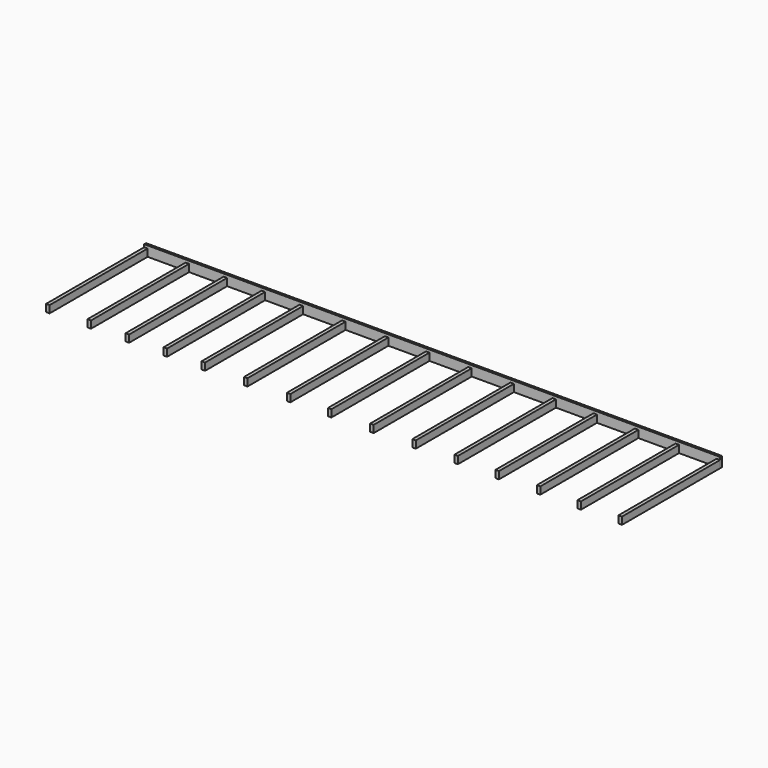
from build123d import *

# Parameters (mm, degrees)
F0_W     = 35
F0_H     = 1227
F1_DEPTH = 73
F2_DEPTH = 100


with BuildPart() as f1:
    # F0 (on Top) → F1 (new body)
    with BuildSketch(Plane.XY):
        with Locations((17.5, 613.5)):
            Rectangle(F0_W, F0_H)
        with Locations((432.5, 613.5)):
            Rectangle(F0_W, F0_H)
        with Locations((813.5, 613.5)):
            Rectangle(F0_W, F0_H)
        with Locations((1193.5, 613.5)):
            Rectangle(F0_W, F0_H)
        with Locations((1573.5, 613.5)):
            Rectangle(F0_W, F0_H)
        with Locations((1998.5, 613.5)):
            Rectangle(F0_W, F0_H)
        with Locations((2427.5, 613.5)):
            Rectangle(F0_W, F0_H)
        with Locations((2838.5, 613.5)):
            Rectangle(F0_W, F0_H)
        with Locations((3261.5, 613.5)):
            Rectangle(F0_W, F0_H)
        with Locations((3683.5, 613.5)):
            Rectangle(F0_W, F0_H)
        with Locations((4104.5, 613.5)):
            Rectangle(F0_W, F0_H)
        with Locations((4515.5, 613.5)):
            Rectangle(F0_W, F0_H)
        with Locations((4929.5, 613.5)):
            Rectangle(F0_W, F0_H)
        with Locations((5336.5, 613.5)):
            Rectangle(F0_W, F0_H)
        with Locations((5747.5, 613.5)):
            Rectangle(F0_W, F0_H)
    extrude(amount=F1_DEPTH)


with BuildPart() as f2:
    # F0 (on Top) → F2 (new body)
    with BuildSketch(Plane.XY):
        Polygon((0, 1250), (0, 1227), (35, 1227), (415, 1227), (450, 1227), (796, 1227), (831, 1227), (1176, 1227), (1211, 1227), (1556, 1227), (1591, 1227), (1981, 1227), (2016, 1227), (2410, 1227), (2445, 1227), (2821, 1227), (2856, 1227), (3244, 1227), (3279, 1227), (3666, 1227), (3701, 1227), (4087, 1227), (4122, 1227), (4498, 1227), (4533, 1227), (4912, 1227), (4947, 1227), (5319, 1227), (5354, 1227), (5730, 1227), (5765, 1227), (5765, 1250), align=None)
    extrude(amount=F2_DEPTH)


solid = Compound([f1.part, f2.part])
